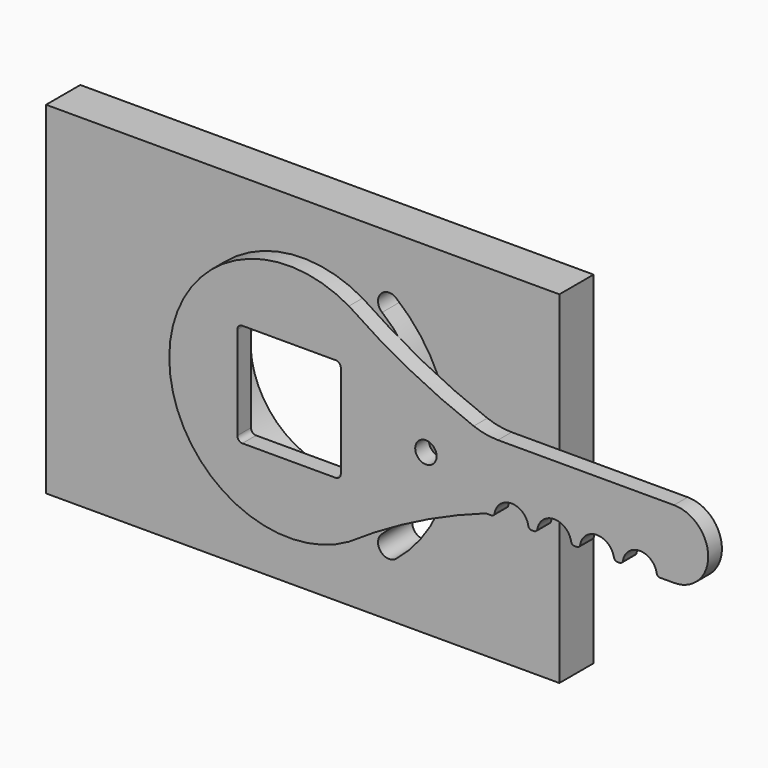
from build123d import *

# Parameters (mm, degrees)
F0_W     = 300
F0_H     = 200
F0_R     = 50.5
F1_DEPTH = 25
F2_R     = 50
F2_W     = 60.5
F2_H     = 60.5
F3_DEPTH = 10
F4_R     = 6.25
F5_DEPTH = 10


with BuildPart() as f1:
    # F0 (on Front) → F1 (new body)
    with BuildSketch(Plane.XZ):
        Rectangle(F0_W, F0_H)
        Circle(F0_R, mode=Mode.SUBTRACT)
        with BuildLine():
            ThreePointArc((54.603125, 67.08762), (86.5, 0), (54.603125, -67.08762))
            ThreePointArc((54.603125, -67.08762), (45.458734, -66.149479), (46.396875, -57.005087))
            ThreePointArc((46.396875, -57.005087), (73.5, 0), (46.396875, 57.005087))
            ThreePointArc((46.396875, 57.005087), (45.458734, 66.149479), (54.603125, 67.08762))
        make_face(mode=Mode.SUBTRACT)
    extrude(amount=F1_DEPTH)


with BuildPart() as f3:
    # F2 (on face) → F3 (new body)
    with BuildSketch(Plane.XZ.offset(25)):
        Circle(F2_R)
        Rectangle(F2_W, F2_H, mode=Mode.SUBTRACT)
    extrude(amount=F3_DEPTH)


with BuildPart() as f5:
    # F4 (on face) → F5 (new body)
    with BuildSketch(Plane.XZ.offset(35)):
        with BuildLine():
            Line((216.83216, -20), (225, -20))
            ThreePointArc((225, -20), (245, 0.00035), (224.9993, 20))
            Line((224.9993, 20), (122.105245, 20))
            ThreePointArc((122.105245, 20), (114.890427, 20.65605), (107.912272, 22.60268))
            ThreePointArc((107.912272, 22.60268), (70.333638, 39.460401), (34.9993, 60.622182))
            ThreePointArc((34.9993, 60.622182), (-70, 0), (34.9993, -60.622182))
            ThreePointArc((34.9993, -60.622182), (73.690555, -37.732979), (115, -20))
            Line((115, -20), (118.16784, -20))
            ThreePointArc((118.16784, -20), (119.458835, -19.527525), (120.139867, -18.333333))
            ThreePointArc((120.139867, -18.333333), (130, -10), (139.860133, -18.333333))
            ThreePointArc((139.860133, -18.333333), (140.541165, -19.527525), (141.83216, -20))
            Line((141.83216, -20), (143.16784, -20))
            ThreePointArc((143.16784, -20), (144.458835, -19.527525), (145.139867, -18.333333))
            ThreePointArc((145.139867, -18.333333), (155, -10), (164.860133, -18.333333))
            ThreePointArc((164.860133, -18.333333), (165.541165, -19.527525), (166.83216, -20))
            Line((166.83216, -20), (168.16784, -20))
            ThreePointArc((168.16784, -20), (169.458835, -19.527525), (170.139867, -18.333333))
            ThreePointArc((170.139867, -18.333333), (180, -10), (189.860133, -18.333333))
            ThreePointArc((189.860133, -18.333333), (190.541165, -19.527525), (191.83216, -20))
            Line((191.83216, -20), (193.16784, -20))
            ThreePointArc((193.16784, -20), (194.458835, -19.527525), (195.139867, -18.333333))
            ThreePointArc((195.139867, -18.333333), (205, -10), (214.860133, -18.333333))
            ThreePointArc((214.860133, -18.333333), (215.541165, -19.527525), (216.83216, -20))
        make_face()
        with BuildLine():
            Line((-27.25, 30.25), (27.25, 30.25))
            ThreePointArc((27.25, 30.25), (29.37132, 29.37132), (30.25, 27.25))
            Line((30.25, 27.25), (30.25, -27.25))
            ThreePointArc((30.25, -27.25), (29.37132, -29.37132), (27.25, -30.25))
            Line((27.25, -30.25), (-27.25, -30.25))
            ThreePointArc((-27.25, -30.25), (-29.37132, -29.37132), (-30.25, -27.25))
            Line((-30.25, -27.25), (-30.25, 27.25))
            ThreePointArc((-30.25, 27.25), (-29.37132, 29.37132), (-27.25, 30.25))
        make_face(mode=Mode.SUBTRACT)
        with Locations((80, 0)):
            Circle(F4_R, mode=Mode.SUBTRACT)
    extrude(amount=-F5_DEPTH)


solid = Compound([f1.part, f3.part, f5.part])
